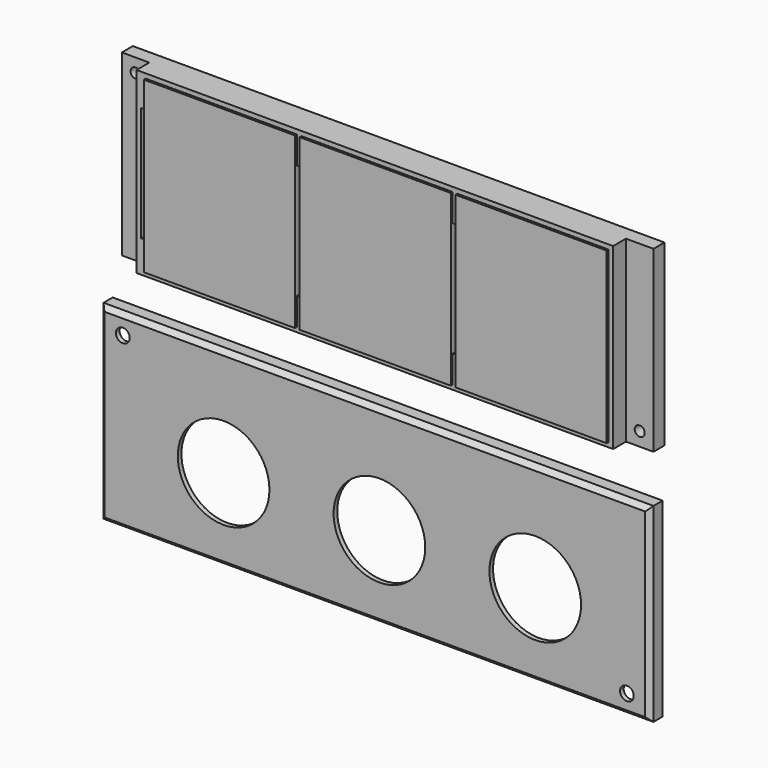
from build123d import *

# Parameters (mm, degrees)
F0_W      = 104
F0_H      = 39
F1_DEPTH  = 3.5
F2_T      = -1
F3_W      = 1
F3_H      = 37
F4_DEPTH  = 2.5
F5_W      = 116
F5_H      = 39
F5_R      = 1.1
F6_DEPTH  = 3
F7_W      = 10
F7_H      = 25
F8_DEPTH  = 5.6
F9_W      = 120
F9_H      = 41.5
F10_DEPTH = 3.5
F11_T     = -1
F12_R     = 1.5
F12_R_2   = 10
F13_DEPTH = 1
F14_SIZE  = 1
F15_W     = 33
F15_H     = 37
F16_DEPTH = 3


with BuildPart() as f1:
    # F0 (on Front) → F1 (new body)
    with BuildSketch(Plane.XZ):
        Rectangle(F0_W, F0_H)
    extrude(amount=F1_DEPTH)

    # F2
    f2_openings = [f1.faces().sort_by_distance(p)[0] for p in [
        (0, -3.5, 0),
    ]]
    offset(amount=F2_T, openings=f2_openings)

    # F3 (on face) → F4 (join)
    with BuildSketch(Plane.XZ.offset(1)):
        with Locations((-16.5, 0)):
            Rectangle(F3_W, F3_H)
        with Locations((17.5, 0)):
            Rectangle(F3_W, F3_H)
        with Locations((-50.5, 0)):
            Rectangle(F3_W, F3_H)
    extrude(amount=F4_DEPTH)

    # F5 (on face) → F6 (join)
    with BuildSketch(Plane(origin=(0, 0, 0), x_dir=(-1, 0, 0), z_dir=(0, 1, 0))):
        Rectangle(F5_W, F5_H)
        with Locations((-55, -16.5)):
            Circle(F5_R, mode=Mode.SUBTRACT)
        with Locations((55, 16.5)):
            Circle(F5_R, mode=Mode.SUBTRACT)
    extrude(amount=F6_DEPTH)

    # F7 (on Front) → F8 (cut, symmetric)
    with BuildSketch(Plane.XZ):
        with Locations((-46, 0)):
            Rectangle(F7_W, F7_H)
        with Locations((-14, 0)):
            Rectangle(F7_W, F7_H)
        with Locations((20, 0)):
            Rectangle(F7_W, F7_H)
    extrude(amount=F8_DEPTH, both=True, mode=Mode.SUBTRACT)


with BuildPart() as f10:
    # F9 (on Front) → F10 (new body)
    with BuildSketch(Plane.XZ):
        with Locations((0, -48.9692046804)):
            Rectangle(F9_W, F9_H)
    extrude(amount=F10_DEPTH)

    # F11
    f11_openings = [f10.faces().sort_by_distance(p)[0] for p in [
        (0, 0, -48.969205),
    ]]
    offset(amount=F11_T, openings=f11_openings)

    # F12 (on face) → F13 (cut)
    with BuildSketch(Plane.XZ.offset(3.5)):
        with Locations((55, -65.4692046804)):
            Circle(F12_R)
        with Locations((-55, -32.4692046804)):
            Circle(F12_R)
        with Locations((-33, -51.7192046804)):
            Circle(F12_R_2)
        with Locations((1, -51.7192046804)):
            Circle(F12_R_2)
        with Locations((35, -51.7192046804)):
            Circle(F12_R_2)
    extrude(amount=-F13_DEPTH, mode=Mode.SUBTRACT)

    # F14
    f14_edges = [f10.edges().sort_by_distance(p)[0] for p in [
        (0, -3.5, -28.219205),
        (-60, -3.5, -48.969205),
        (60, -3.5, -48.969205),
        (0, -3.5, -69.719205),
    ]]
    chamfer(f14_edges, length=F14_SIZE)


with BuildPart() as f16:
    # F15 (on face) → F16 (new body)
    with BuildSketch(Plane.XZ.offset(1)):
        with Locations((-33.5, 0)):
            Rectangle(F15_W, F15_H)
    extrude(amount=F16_DEPTH)


with BuildPart() as f16b:
    # F15 (on face) → F16, piece 2 (new body)
    with BuildSketch(Plane.XZ.offset(1)):
        Polygon((17, -12.5), (17, 18.5), (-16, 18.5), (-16, 12.5), (-16, -18.5), (17, -18.5), align=None)
    extrude(amount=F16_DEPTH)


with BuildPart() as f16c:
    # F15 (on face) → F16, piece 3 (new body)
    with BuildSketch(Plane.XZ.offset(1)):
        Polygon((51, -18.5), (51, 18.5), (18, 18.5), (18, 12.5), (18, -18.5), align=None)
    extrude(amount=F16_DEPTH)


solid = Compound([f1.part, f10.part, f16.part, f16b.part, f16c.part])
